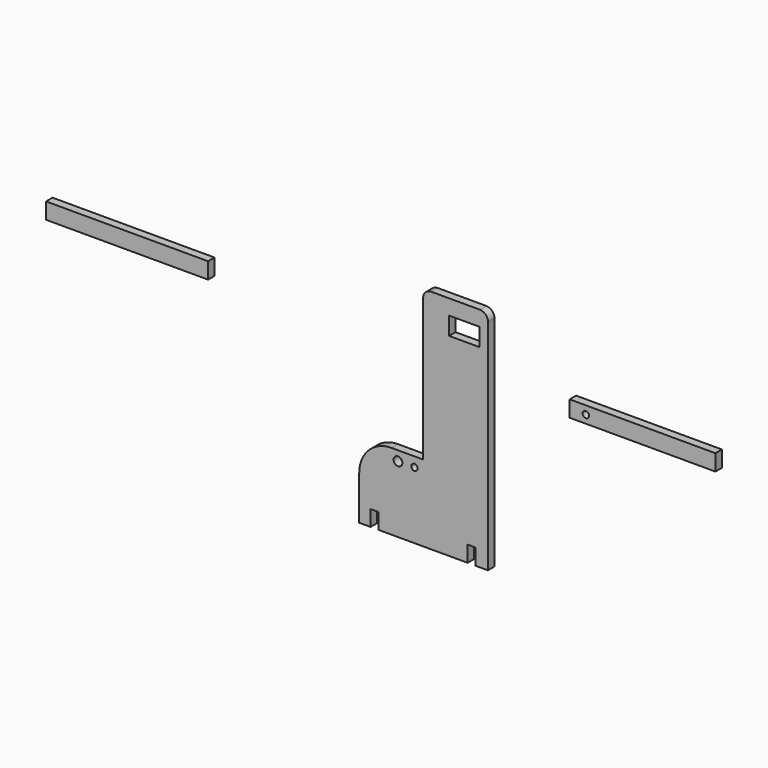
from build123d import *

# Parameters (mm, degrees)
F0_W      = 6.2484
F0_H      = 12.7
F1_DEPTH  = 6.35
F2_R      = 2.50063
F2_W      = 0.635
F2_H      = 0.635
F2_W_2    = 0.64686688
F3_DEPTH  = 6.35
F5_W      = 6.35
F5_H      = 12.7
F6_DEPTH  = 18.796
F7_W      = 127
F7_H      = 12.7
F8_DEPTH  = 6.35
F9_R      = 2.4765
F9_R_2    = 3.429
F10_DEPTH = 10.668
F11_W     = 24
F11_H     = 14
F12_DEPTH = 12.6


with BuildPart() as f1:
    # F0 (on Front) → F1 (new body)
    with BuildSketch(Plane.XZ):
        with BuildLine():
            Line((0.1094298816, 64.1882125348), (-37.9905701184, 64.1882125348))
            ThreePointArc((-37.9905701184, 64.1882125348), (-42.4806981789, 62.3283405953), (-44.3405701184, 57.8382125348))
            Line((-44.3405701184, 57.8382125348), (-44.3405701184, -53.6726415157))
            Line((-44.3405701184, -53.6726415157), (-44.3405701184, -113.6117874652))
            Line((-44.3405701184, -113.6117874652), (-3.5291565582, -113.6117874652))
            Line((-3.5291565582, -113.6117874652), (-3.5291565582, -100.9117874652))
            Line((-3.5291565582, -100.9117874652), (2.7192434418, -100.9117874652))
            Line((2.7192434418, -100.9117874652), (2.7192434418, -113.6117874652))
            Line((2.7192434418, -113.6117874652), (6.4594298816, -113.6117874652))
            Line((6.4594298816, -113.6117874652), (6.4594298816, 57.8382125348))
            ThreePointArc((6.4594298816, 57.8382125348), (4.5995579422, 62.3283405953), (0.1094298816, 64.1882125348))
        make_face()
        with BuildLine():
            Line((-44.3405701184, -113.6117874652), (-44.3405701184, -53.6726415157))
            Line((-44.3405701184, -53.6726415157), (-69.0410040975, -53.6726415157))
            ThreePointArc((-69.0410040975, -53.6726415157), (-87.0015163396, -61.1121292736), (-94.4410040975, -79.0726415157))
            Line((-94.4410040975, -79.0726415157), (-94.4410040975, -113.6117874652))
            Line((-94.4410040975, -113.6117874652), (-89.2475768924, -113.6117874652))
            Line((-89.2475768924, -113.6117874652), (-89.2475768924, -100.9117874652))
            Line((-89.2475768924, -100.9117874652), (-82.9991768924, -100.9117874652))
            Line((-82.9991768924, -100.9117874652), (-82.9991768924, -113.6117874652))
            Line((-82.9991768924, -113.6117874652), (-44.3405701184, -113.6117874652))
        make_face()
        with Locations((-0.4049565582, -107.2617874652)):
            Rectangle(F0_W, F0_H)
        with Locations((-86.1233768924, -107.2617874652)):
            Rectangle(F0_W, F0_H)
    extrude(amount=F1_DEPTH)

    # F5 (on face) → F6 (cut)
    with BuildSketch(Plane.XZ.offset(6.35)):
        with Locations((-82.3533010844, -107.5799518967)):
            Rectangle(F5_W, F5_H)
        with Locations((-6.3044726846, -107.3489762023)):
            Rectangle(F5_W, F5_H)
    extrude(amount=-F6_DEPTH, mode=Mode.SUBTRACT)

    # F9 (on face) → F10 (cut)
    with BuildSketch(Plane.XZ.offset(6.35)):
        with Locations((-51.1537013053, -61.3149702549)):
            Circle(F9_R)
        with Locations((-64.0666323717, -61.3149702549)):
            Circle(F9_R_2)
    extrude(amount=-F10_DEPTH, mode=Mode.SUBTRACT)

    # F11 (on face) → F12 (cut)
    with BuildSketch(Plane.XZ.offset(6.35)):
        with Locations((-12, 45.2657650553)):
            Rectangle(F11_W, F11_H)
    extrude(amount=-F12_DEPTH, mode=Mode.SUBTRACT)


with BuildPart() as f3:
    # F2 (on Front) → F3 (new body)
    with BuildSketch(Plane.XZ):
        Polygon((174.2882113361, 25.1918840105), (70.4541908026, 25.1918840105), (70.4541908026, 12.4918840105), (184.7541908026, 12.4918840105), (184.7541908026, 25.1918840105), (180.8028519154, 25.1918840105), (180.8028519154, 24.5568840105), (180.1559850354, 24.5568840105), (180.1559850354, 25.1918840105), (174.9232113361, 25.1918840105), (174.9232113361, 24.5568840105), (174.2882113361, 24.5568840105), align=None)
        with Locations((83.1541908026, 18.8418840105)):
            Circle(F2_R, mode=Mode.SUBTRACT)
        with Locations((174.6057113361, 24.8743840105)):
            Rectangle(F2_W, F2_H)
        with Locations((180.4794184754, 24.8743840105)):
            Rectangle(F2_W_2, F2_H)
    extrude(amount=F3_DEPTH)


with BuildPart() as f8:
    # F7 (on Front) → F8 (new body)
    with BuildSketch(Plane.XZ):
        with Locations((-276.3879820704, 21.9772367024)):
            Rectangle(F7_W, F7_H)
    extrude(amount=F8_DEPTH)


solid = Compound([f1.part, f3.part, f8.part])
